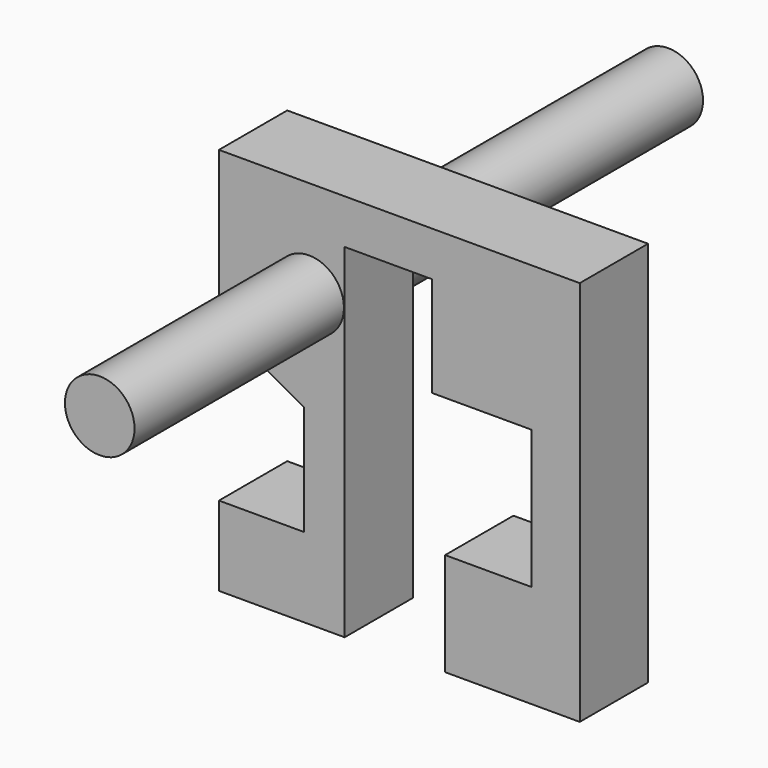
from build123d import *

# Parameters (mm, degrees)
F1_DEPTH      = 25.4
F2_R          = 10.3575918664
F3_DEPTH      = 82.7624946833
F3_DEPTH_BACK = 25.4
F4_DEPTH      = 25.4
F5_DEPTH      = 211.4430963993


with BuildPart() as f1:
    # F0 (on Front) → F1 (new body)
    with BuildSketch(Plane.XZ):
        Polygon((-54.8551306129, 59.1857582331), (-54.8551306129, 13.9228226617), (-29.6127572656, 0), (-29.6127572656, -32.6884873211), (-54.8551306129, -32.6884873211), (-54.8551306129, -56.3453622162), (-17.4506641924, -56.3453622162), (-17.4506641924, 45.9188297391), (8.5172532126, 45.9188297391), (8.5172532126, 16.1184109747), (38.0811914802, 16.1184109747), (38.0811914802, -25.0818282366), (12.4506652355, -25.0818282366), (12.4506652355, -55.7573884726), (52.5093525648, -55.7573884726), (52.5093525648, 59.1857582331), align=None)
    extrude(amount=F1_DEPTH)

    # F2 (on Front) → F3 (join, two sides)
    with BuildSketch(Plane.XZ) as f3_sk:
        with Locations((-28.0219614506, 29.9158245325)):
            Circle(F2_R)
    extrude(amount=-F3_DEPTH)
    extrude(f3_sk.sketch, amount=F3_DEPTH_BACK)

    # F4 (add): a face of the model
    f4_faces = [f1.faces().sort_by_distance(p)[0] for p in [
        (-28.0219614506, 82.7624946833, 29.9158245325),
    ]]
    extrude(f4_faces, amount=F4_DEPTH)

    # F5 (add): a face of the model
    f5_faces = [f1.faces().sort_by_distance(p)[0] for p in [
        (-28.0219614506, 108.1624946833, 29.9158245325),
    ]]
    extrude(f5_faces, amount=-F5_DEPTH)


solid = f1.part
